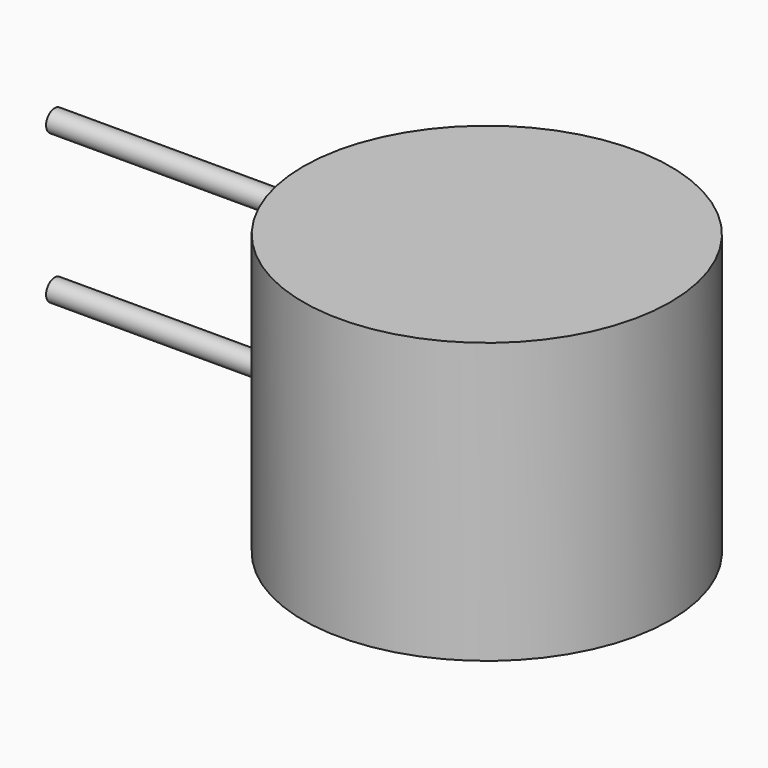
from build123d import *

# Parameters (mm, degrees)
F0_R     = 85
F1_DEPTH = 129.6
F2_R     = 5
F3_DEPTH = 200
F4_R     = 40.25
F5_DEPTH = 1.5


with BuildPart() as f1:
    # F0 (on Top) → F1 (new body)
    with BuildSketch(Plane.XY):
        Circle(F0_R)
    extrude(amount=F1_DEPTH)

    # F2 (on Right) → F3 (join)
    with BuildSketch(Plane.YZ):
        with Locations((0, 42)):
            Circle(F2_R)
        with Locations((0, 111)):
            Circle(F2_R)
    extrude(amount=-F3_DEPTH)

    # F4 (on face) → F5 (cut)
    with BuildSketch(Plane(origin=(0, 0, 0), x_dir=(1, 0, 0), z_dir=(0, 0, -1))):
        Circle(F4_R)
    extrude(amount=-F5_DEPTH, mode=Mode.SUBTRACT)


solid = f1.part
